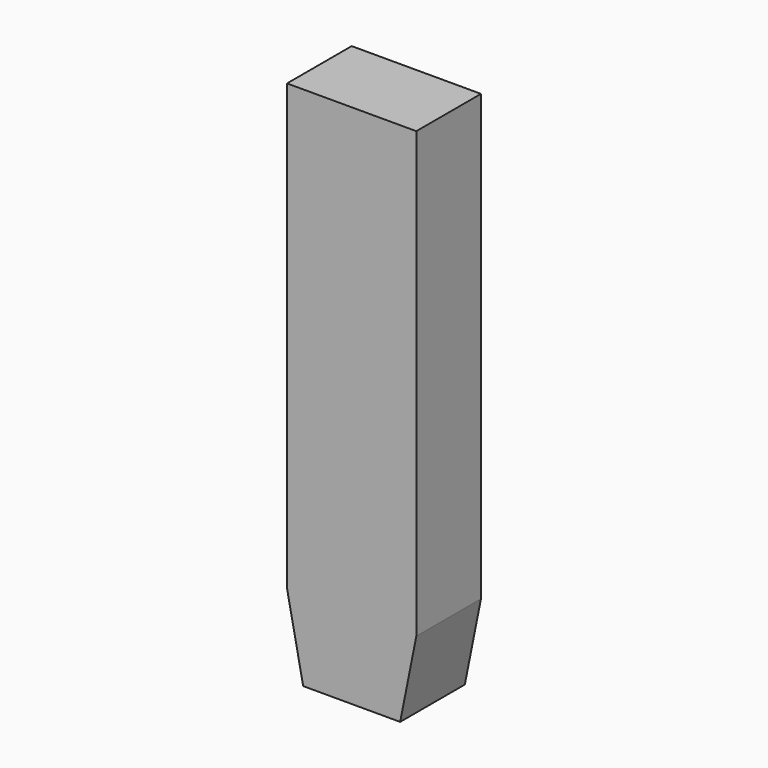
from build123d import *

# Parameters (mm, degrees)
BOX011_W           = 0.8
BOX011_H           = 0.5
BOX011_DEPTH       = 3.25
CHAMFER002_1_SIZE2 = 0.1
CHAMFER002_1_SIZE  = 0.5
CHAMFER002_2_SIZE2 = 0.1
CHAMFER002_2_SIZE  = 0.5


with BuildPart() as part:
    # Box011 → Box011 (new body)
    with BuildSketch(Plane(origin=(10.98, 2.6, -2.9), x_dir=(1, 0, 0), z_dir=(0, 0, 1))):
        with Locations((0.4, 0.25)):
            Rectangle(BOX011_W, BOX011_H)
    extrude(amount=BOX011_DEPTH)

    # Chamfer002 1
    chamfer002_1_edges = [part.edges().sort_by_distance(p)[0] for p in [
        (11.78, 2.85, -2.9),
    ]]
    chamfer002_1_side = part.faces().sort_by_distance((11.78, 2.85, -1.275))[0]
    chamfer(chamfer002_1_edges, length=CHAMFER002_1_SIZE, length2=CHAMFER002_1_SIZE2, reference=chamfer002_1_side)

    # Chamfer002 2
    chamfer002_2_edges = [part.edges().sort_by_distance(p)[0] for p in [
        (10.98, 2.85, -2.9),
    ]]
    chamfer002_2_side = part.faces().sort_by_distance((10.98, 2.85, -1.275))[0]
    chamfer(chamfer002_2_edges, length=CHAMFER002_2_SIZE, length2=CHAMFER002_2_SIZE2, reference=chamfer002_2_side)


solid = part.part
